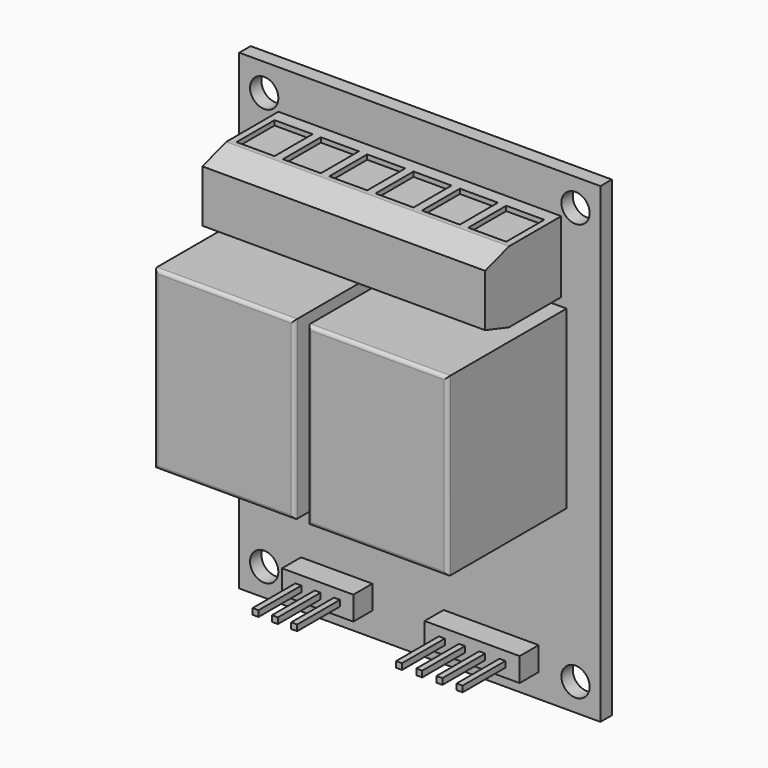
from build123d import *

# Parameters (mm, degrees)
F0_W      = 38.608
F0_H      = 50.419
F0_R      = 1.5113
F1_DEPTH  = 1.524
F2_W      = 14.986
F2_H      = 18.796
F3_DEPTH  = 15.875
F4_R      = 0.381
F5_W      = 30.226
F5_H      = 7.62
F6_DEPTH  = 10.16
F7_SIZE2  = 1.016
F7_SIZE   = 3.175
F8_W      = 4.064
F8_H      = 5.08
F9_DEPTH  = 0.508
F10_W     = 7.62
F10_H     = 2.54
F10_W_2   = 10.16
F11_DEPTH = 2.54
F12_W     = 0.635
F12_H     = 0.635
F13_DEPTH = 5.715


with BuildPart() as f1:
    # F0 (on Front) → F1 (new body)
    with BuildSketch(Plane.XZ):
        Rectangle(F0_W, F0_H)
        with Locations((-16.637, -22.2885)):
            Circle(F0_R, mode=Mode.SUBTRACT)
        with Locations((16.637, -22.2885)):
            Circle(F0_R, mode=Mode.SUBTRACT)
        with Locations((-16.637, 22.2885)):
            Circle(F0_R, mode=Mode.SUBTRACT)
        with Locations((16.637, 22.2885)):
            Circle(F0_R, mode=Mode.SUBTRACT)
    extrude(amount=F1_DEPTH)

    # F2 (on face) → F3 (join)
    with BuildSketch(Plane.XZ.offset(1.524)):
        with Locations((-8.1915, 3.1115)):
            Rectangle(F2_W, F2_H)
        with Locations((8.1915, 3.1115)):
            Rectangle(F2_W, F2_H)
    extrude(amount=F3_DEPTH)

    # F4
    f4_edges = [f1.edges().sort_by_distance(p)[0] for p in [
        (-8.1915, -17.399, 12.5095),
        (-15.6845, -17.399, 3.1115),
        (-8.1915, -17.399, -6.2865),
        (-0.6985, -17.399, 3.1115),
        (0.6985, -17.399, 3.1115),
        (8.1915, -17.399, -6.2865),
        (15.6845, -17.399, 3.1115),
        (8.1915, -17.399, 12.5095),
    ]]
    fillet(f4_edges, radius=F4_R)

    # F5 (on face) → F6 (join)
    with BuildSketch(Plane.XZ.offset(1.524)):
        with Locations((0, 17.2085)):
            Rectangle(F5_W, F5_H)
    extrude(amount=F6_DEPTH)

    # F7
    f7_edges = [f1.edges().sort_by_distance(p)[0] for p in [
        (0, -11.684, 21.0185),
        (0, -11.684, 13.3985),
    ]]
    chamfer(f7_edges, length=F7_SIZE, length2=F7_SIZE2)

    # F8 (on face) → F9 (cut)
    with BuildSketch(Plane.XY.offset(21.0185)):
        with Locations((-12.3825, -5.461)):
            Rectangle(F8_W, F8_H)
        with Locations((-7.4295, -5.461)):
            Rectangle(F8_W, F8_H)
        with Locations((-2.4765, -5.461)):
            Rectangle(F8_W, F8_H)
        with Locations((2.4765, -5.461)):
            Rectangle(F8_W, F8_H)
        with Locations((7.4295, -5.461)):
            Rectangle(F8_W, F8_H)
        with Locations((12.3825, -5.461)):
            Rectangle(F8_W, F8_H)
    extrude(amount=-F9_DEPTH, mode=Mode.SUBTRACT)

    # F10 (on face) → F11 (join)
    with BuildSketch(Plane.XZ.offset(1.524)):
        with Locations((-8.89, -21.3995)):
            Rectangle(F10_W, F10_H)
        with Locations((7.62, -21.3995)):
            Rectangle(F10_W_2, F10_H)
    extrude(amount=F11_DEPTH)

    # F12 (on face) → F13 (join)
    with BuildSketch(Plane.XZ.offset(4.064)):
        with Locations((4.3815, -21.3995)):
            Rectangle(F12_W, F12_H)
        with Locations((6.5405, -21.3995)):
            Rectangle(F12_W, F12_H)
        with Locations((8.6995, -21.3995)):
            Rectangle(F12_W, F12_H)
        with Locations((10.8585, -21.3995)):
            Rectangle(F12_W, F12_H)
        with Locations((-6.82625, -21.3995)):
            Rectangle(F12_W, F12_H)
        with Locations((-8.89, -21.3995)):
            Rectangle(F12_W, F12_H)
        with Locations((-10.95375, -21.3995)):
            Rectangle(F12_W, F12_H)
    extrude(amount=F13_DEPTH)


solid = f1.part
